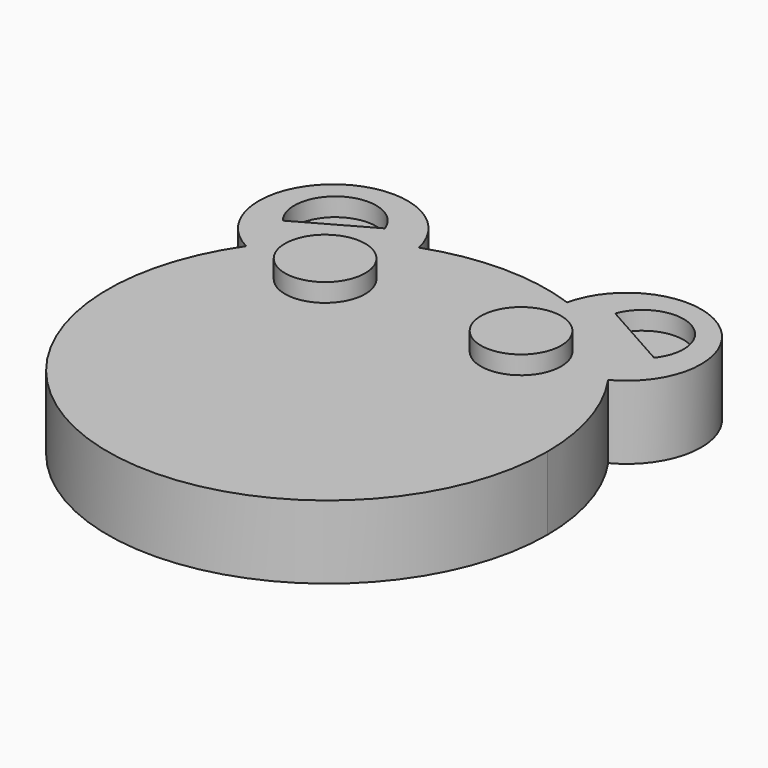
from build123d import *

# Parameters (mm, degrees)
F1_DEPTH = 12.7
F2_R     = 6.95662
F3_DEPTH = 3.175
F5_DEPTH = 3.175


with BuildPart() as f1:
    # F0 (on Top) → F1 (new body)
    with BuildSketch(Plane.XY):
        with BuildLine():
            ThreePointArc((-31.390282, 21.59306), (-11.305757, -36.383923), (38.1, 0))
            ThreePointArc((38.1, 0), (36.383923, 11.305757), (31.390282, 21.59306))
            ThreePointArc((31.390282, 21.59306), (23.24256, 30.189293), (12.848724, 35.868096))
            ThreePointArc((12.848724, 35.868096), (0, 38.1), (-12.848724, 35.868096))
            ThreePointArc((-12.848724, 35.868096), (-23.24256, 30.189293), (-31.390282, 21.59306))
        make_face()
        with BuildLine():
            ThreePointArc((12.848724, 35.868096), (23.24256, 30.189293), (31.390282, 21.59306))
            ThreePointArc((31.390282, 21.59306), (33.31594, 43.273405), (12.848724, 35.868096))
        make_face()
        with BuildLine():
            ThreePointArc((-12.848724, 35.868096), (-33.31594, 43.273405), (-31.390282, 21.59306))
            ThreePointArc((-31.390282, 21.59306), (-23.24256, 30.189293), (-12.848724, 35.868096))
        make_face()
    extrude(amount=-F1_DEPTH)

    # F2 (on face) → F3 (join)
    with BuildSketch(Plane.XY):
        with Locations((-16.985364, 20.710224)):
            Circle(F2_R)
        with Locations((16.985364, 20.710224)):
            Circle(F2_R)
    extrude(amount=F3_DEPTH)

    # F4 (on face) → F5 (cut)
    with BuildSketch(Plane.XY):
        with BuildLine():
            Line((-32.182794, 30.543854), (-19.965252, 37.397597))
            ThreePointArc((-19.965252, 37.397597), (-30.11931, 41.18189), (-32.182794, 30.543854))
        make_face()
        with BuildLine():
            ThreePointArc((32.182794, 30.543854), (30.11931, 41.18189), (19.965252, 37.397597))
            Line((19.965252, 37.397597), (32.182794, 30.543854))
        make_face()
    extrude(amount=-F5_DEPTH, mode=Mode.SUBTRACT)


solid = f1.part
